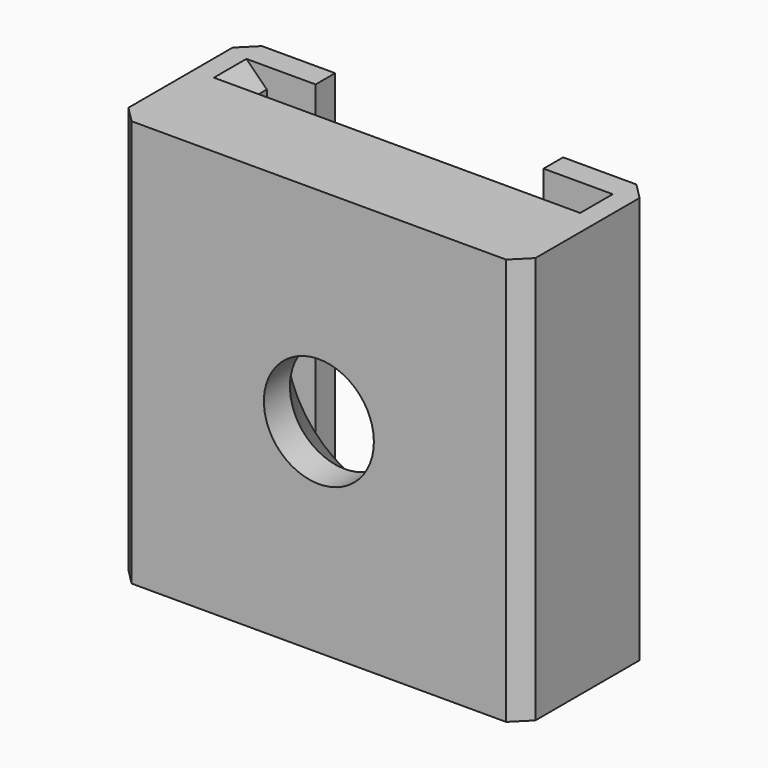
from build123d import *

# Parameters (mm, degrees)
F1_DEPTH       = 25
F3_D           = 6.7564
F3_CSINK_D     = 13.716
F3_CSINK_ANGLE = 82
F4_SIZE        = 1.25
F5_SIZE        = 1


with BuildPart() as f1:
    # F0 (on Top) → F1 (new body)
    with BuildSketch(Plane.XY):
        Polygon((-12.5, 10), (-12.5, 0), (12.5, 0), (12.5, 10), (7, 10), (7, 8.5), (10, 8.5), (10, 6), (-10, 6), (-10, 8.5), (-7, 8.5), (-7, 10), align=None)
    extrude(amount=F1_DEPTH)

    # F3 (through all)
    with Locations(Plane(origin=(0, 6, 0), x_dir=(-1, 0, 0), z_dir=(0, 1, 0))):
        with Locations((0, 12.5)):
            CounterSinkHole(F3_D / 2, F3_CSINK_D / 2, counter_sink_angle=F3_CSINK_ANGLE)

    # F4
    f4_edges = [f1.edges().sort_by_distance(p)[0] for p in [
        (-10, 7.25, 25),
        (10, 7.25, 25),
    ]]
    chamfer(f4_edges, length=F4_SIZE)

    # F5
    f5_edges = [f1.edges().sort_by_distance(p)[0] for p in [
        (12.5, 10, 12.5),
        (12.5, 0, 12.5),
        (-12.5, 10, 12.5),
        (-12.5, 0, 12.5),
    ]]
    chamfer(f5_edges, length=F5_SIZE)


solid = f1.part
